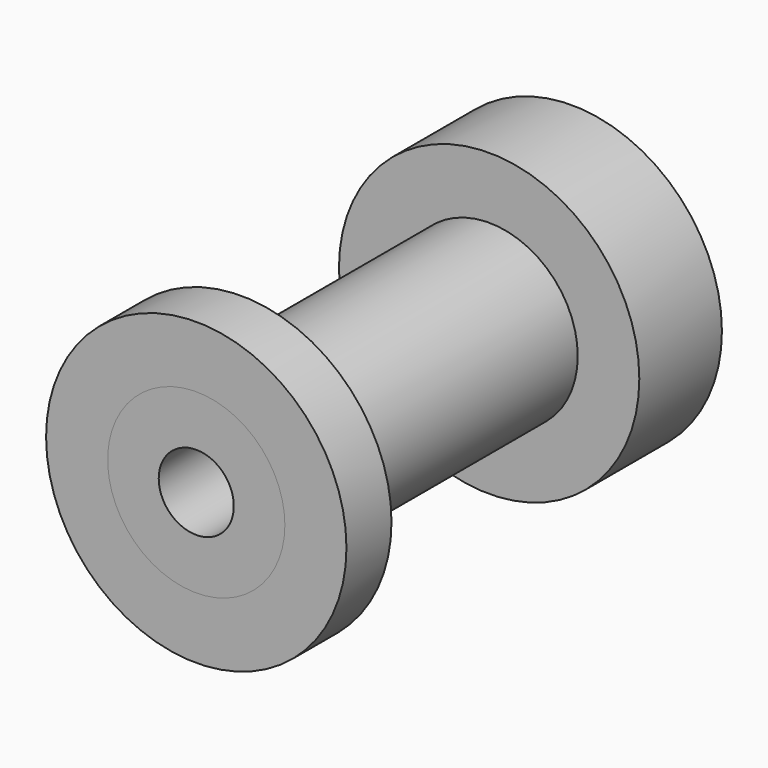
from build123d import *

# Parameters (mm, degrees)
F0_R     = 25.4
F1_DEPTH = 17.4625
F2_R     = 14.986
F3_DEPTH = 61.9125
F4_R     = 25.4
F4_R_2   = 14.986
F5_DEPTH = 9.525
F6_R     = 6.35
F7_DEPTH = 79.376


with BuildPart() as f1:
    # F0 (on Front) → F1 (new body)
    with BuildSketch(Plane.XZ):
        with Locations((-25.0536371022, 20.2045440674)):
            Circle(F0_R)
    extrude(amount=F1_DEPTH)

    # F2 (on face) → F3 (join)
    with BuildSketch(Plane.XZ.offset(17.4625)):
        with Locations((-25.0536371022, 20.2045440674)):
            Circle(F2_R)
    extrude(amount=F3_DEPTH)

    # F6 (on face) → F7 (cut, through all)
    with BuildSketch(Plane(origin=(0, 0, 0), x_dir=(-1, 0, 0), z_dir=(0, 1, 0))):
        with Locations((25.0536371022, 20.2045440674)):
            Circle(F6_R)
    extrude(amount=-F7_DEPTH, mode=Mode.SUBTRACT)


with BuildPart() as f5:
    # F4 (on face) → F5 (new body)
    with BuildSketch(Plane.XZ.offset(79.375)):
        with Locations((-25.0536371022, 20.2045440674)):
            Circle(F4_R)
        with Locations((-25.0536371022, 20.2045440674)):
            Circle(F4_R_2, mode=Mode.SUBTRACT)
    extrude(amount=-F5_DEPTH)


solid = Compound([f1.part, f5.part])
